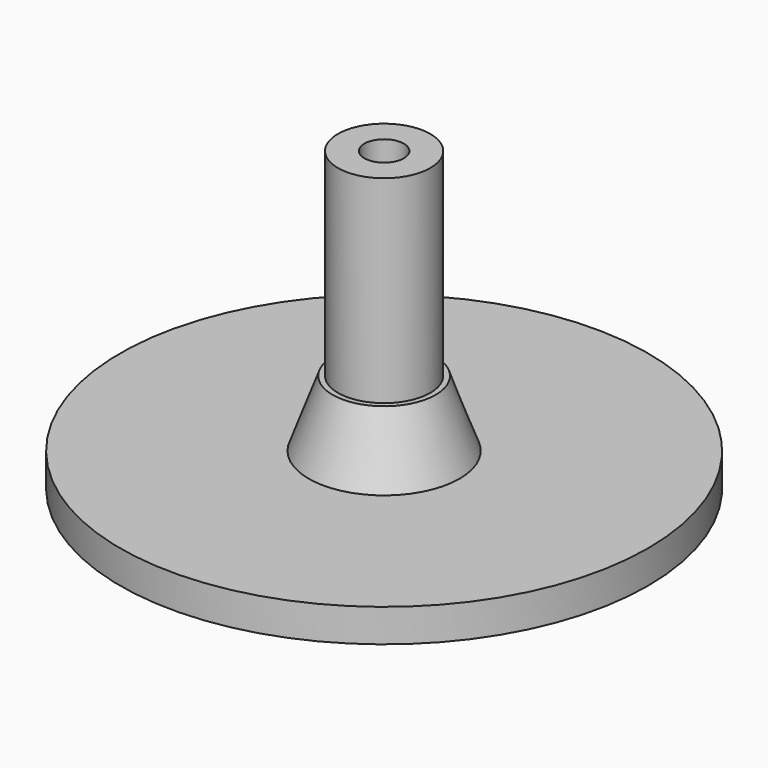
from build123d import *

# Parameters (mm, degrees)
F0_R     = 20
F1_DEPTH = 2.5
F2_R     = 3.5
F2_R_2   = 1.5
F3_DEPTH = 20
F4_R     = 5.7197863804
F4_R_2   = 3.5
F5_DEPTH = 5
F5_TAPER = 20


with BuildPart() as f1:
    # F0 (on Top) → F1 (new body)
    with BuildSketch(Plane.XY):
        Circle(F0_R)
    extrude(amount=F1_DEPTH)

    # F2 (on face) → F3 (join)
    with BuildSketch(Plane.XY.offset(2.5)):
        Circle(F2_R)
        Circle(F2_R_2, mode=Mode.SUBTRACT)
    extrude(amount=F3_DEPTH)

    # F4 (on face) → F5 (join)
    with BuildSketch(Plane.XY.offset(2.5)):
        Circle(F4_R)
        Circle(F4_R_2, mode=Mode.SUBTRACT)
        Circle(F4_R_2)
    extrude(amount=F5_DEPTH, taper=F5_TAPER)


solid = f1.part
